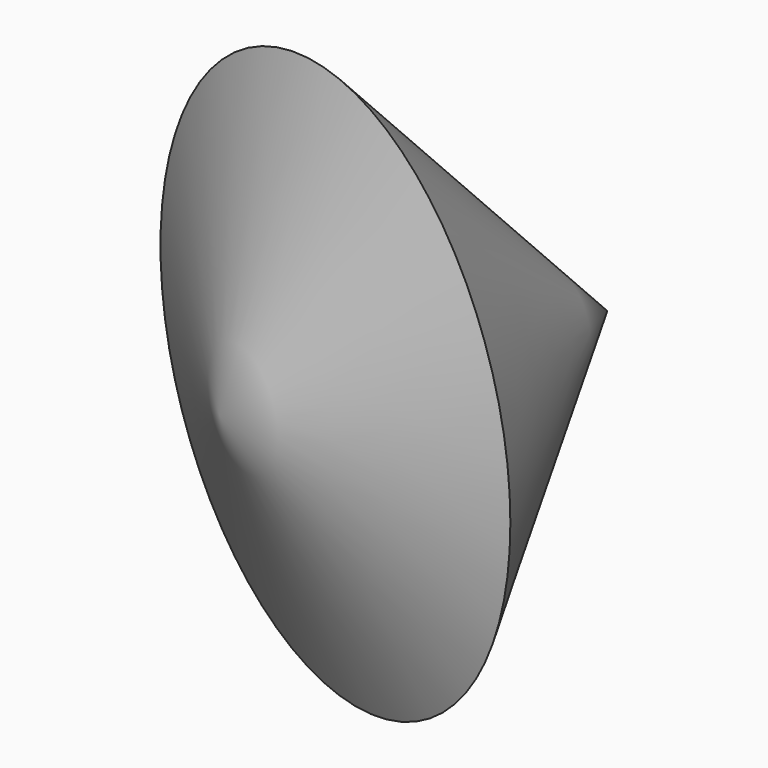
from build123d import *


with BuildPart() as f1:
    # F0 (on Top) → F1 (revolve)
    with BuildSketch(Plane.XY):
        Polygon((14.4079299644, -17.7800003439), (-7.9703452066, 26.6700014472), (-25.1372419298, -17.7800003439), align=None)
    revolve(axis=Axis((-16.5537935682, 4.4450005516, 0), (-0.3602720435, -0.9328472837, 0)))


solid = f1.part
